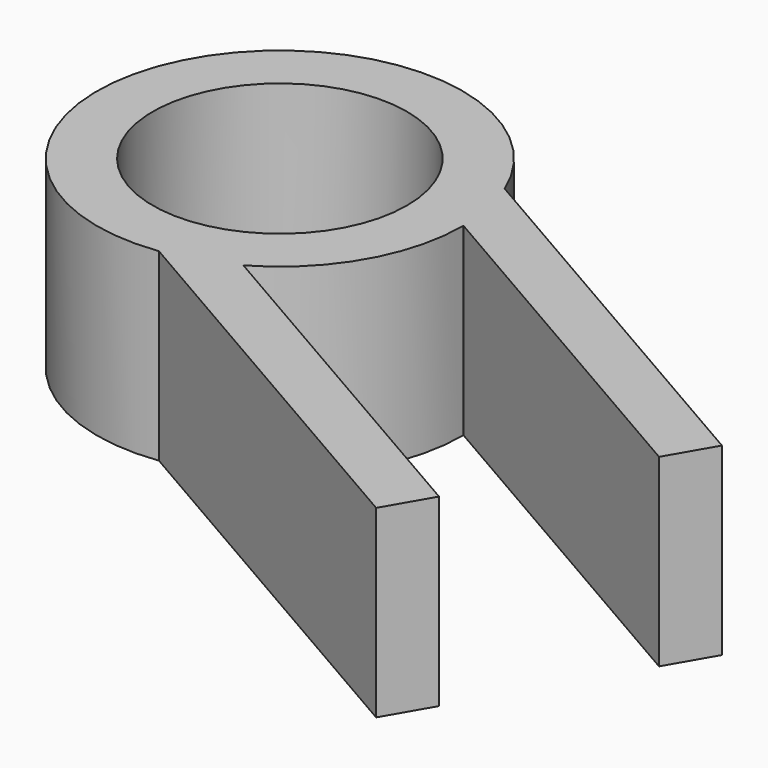
from build123d import *

# Parameters (mm, degrees)
F0_R     = 4.824813
F1_DEPTH = 7


with BuildPart() as f1:
    # F0 (on Top) → F1 (new body)
    with BuildSketch(Plane.XY):
        with BuildLine():
            ThreePointArc((3.438076, -6.026426), (5.999672, -3.484554), (6.938168, 0))
            ThreePointArc((6.938168, 0), (6.938145, 0.017876), (6.938076, 0.035752))
            ThreePointArc((6.938076, 0.035752), (6.802059, 1.367542), (6.412804, 2.648419))
            ThreePointArc((6.412804, 2.648419), (-6.00863, 3.469084), (0.912804, -6.877861))
            ThreePointArc((0.912804, -6.877861), (2.216704, -6.574527), (3.438076, -6.026426))
        make_face()
        Circle(F0_R, mode=Mode.SUBTRACT)
        with BuildLine():
            Line((17.232958, -13.990905), (3.438076, -6.026426))
            ThreePointArc((3.438076, -6.026426), (2.216704, -6.574527), (0.912804, -6.877861))
            Line((0.912804, -6.877861), (16.232958, -15.722956))
            Line((16.232958, -15.722956), (17.232958, -13.990905))
        make_face()
        with BuildLine():
            ThreePointArc((6.412804, 2.648419), (6.802059, 1.367542), (6.938076, 0.035752))
            Line((6.938076, 0.035752), (20.732958, -7.928727))
            Line((20.732958, -7.928727), (21.732958, -6.196676))
            Line((21.732958, -6.196676), (6.412804, 2.648419))
        make_face()
    extrude(amount=F1_DEPTH)


solid = f1.part
